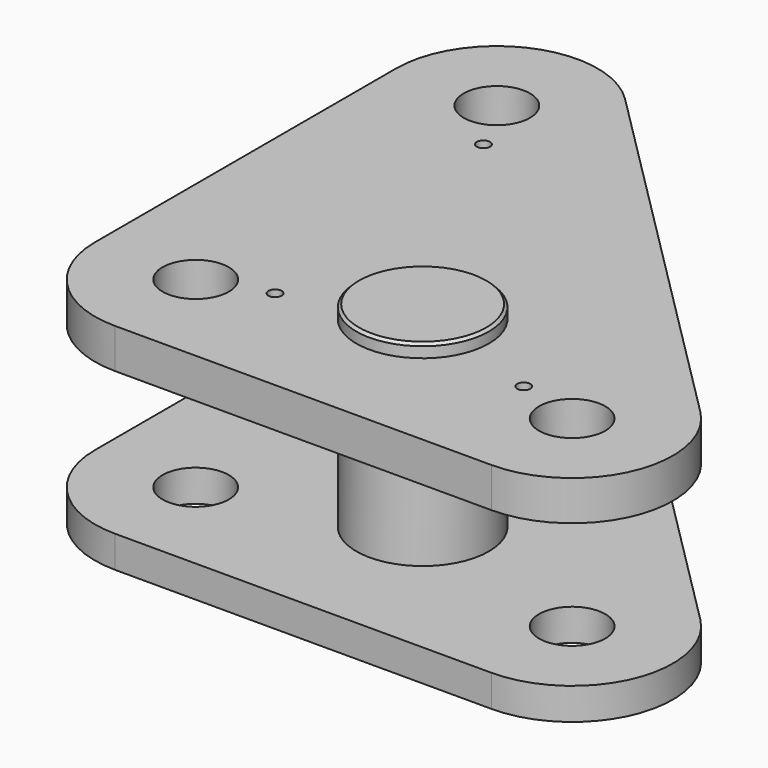
from build123d import *

# Parameters (mm, degrees)
SKETCH006_R         = 12.5
PAD001_DEPTH        = 15
SKETCH007_R         = 25
PAD002_DEPTH        = 74
LINEARPATTERN_COUNT = 2
LINEARPATTERN_PITCH = 69
SKETCH008_W         = 252.12847
SKETCH008_H         = 13.500198
POCKET002_DEPTH     = 218.001
SKETCH009_R         = 2.5
HOLE001_DEPTH       = 16
CHAMFER001_SIZE     = 1


with BuildPart() as part:
    # Sketch006 → Pad001 (new body)
    with BuildSketch(Plane.XY):
        with BuildLine():
            ThreePointArc((0, 38), (11.129942, 11.129942), (38, 0))
            Line((38, 0), (180, 0))
            ThreePointArc((180, 0), (215.107422, 23.45803), (206.870058, 64.870058))
            Line((64.870058, 206.870058), (206.870058, 64.870058))
            ThreePointArc((64.870058, 206.870058), (23.45803, 215.107422), (0, 180))
            Line((0, 180), (0, 38))
        make_face()
        with Locations((38, 180)):
            Circle(SKETCH006_R, mode=Mode.SUBTRACT)
        with Locations((180, 38)):
            Circle(SKETCH006_R, mode=Mode.SUBTRACT)
        with Locations((38, 38)):
            Circle(SKETCH006_R, mode=Mode.SUBTRACT)
    pad001 = extrude(amount=PAD001_DEPTH)

    # Sketch007 (on DatumPlane) → Pad002 (join)
    with BuildSketch(Plane.XY.offset(20)):
        with Locations((106, 60)):
            Circle(SKETCH007_R)
    extrude(amount=-PAD002_DEPTH)

    # LinearPattern: Pad001 ×2
    with Locations(*[(0, 0, -i * LINEARPATTERN_PITCH) for i in range(1, LINEARPATTERN_COUNT)]):
        add(pad001)

    # Sketch008 (on DatumPlane) → Pocket002 (cut, through all)
    with BuildSketch(Plane.XZ):
        with Locations((99.729314, -72.750099)):
            Rectangle(SKETCH008_W, SKETCH008_H)
    extrude(amount=-POCKET002_DEPTH, mode=Mode.SUBTRACT)

    # Sketch009 (on Face23 of LinearPattern) → Hole001 (cut)
    with BuildSketch(Plane.XY.offset(15)):
        with Locations((50.325314, 158.249445)):
            Circle(SKETCH009_R)
        with Locations((61.786113, 45.695507)):
            Circle(SKETCH009_R)
        with Locations((156.036591, 45.124257)):
            Circle(SKETCH009_R)
    extrude(amount=-HOLE001_DEPTH, mode=Mode.SUBTRACT)

    # Chamfer001
    chamfer001_edges = [part.edges().sort_by_distance(p)[0] for p in [
        (81, 60, 20),
    ]]
    chamfer(chamfer001_edges, length=CHAMFER001_SIZE)


solid = part.part
